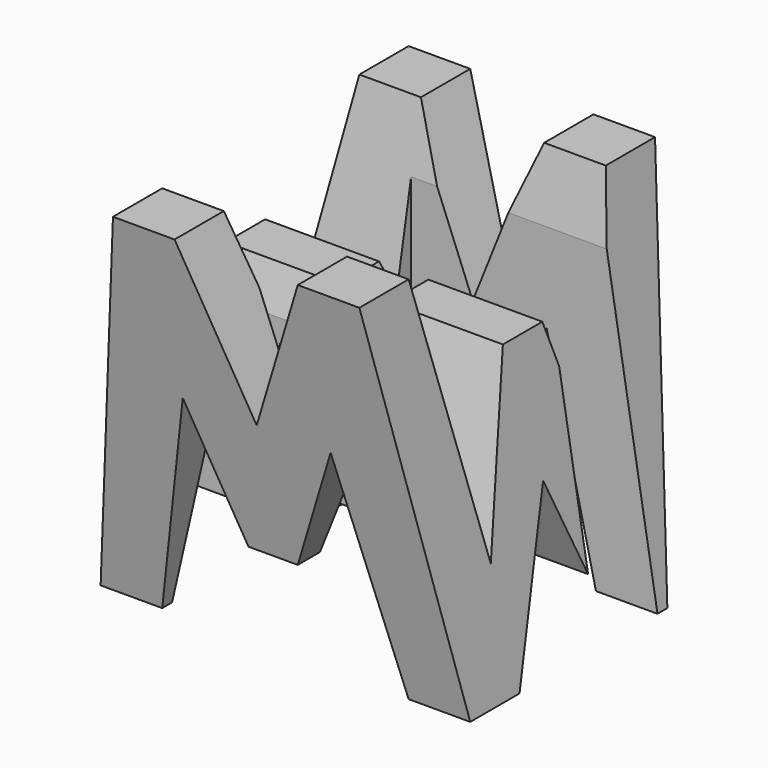
from build123d import *

# Parameters (mm, degrees)
F0_W      = 38.1
F0_H      = 38.1
F1_DEPTH  = 38.1
F6_DEPTH  = 50.8
F8_DEPTH  = 38.1
F9_W      = 25.4
F9_H      = 7.62
F10_DEPTH = 38.1


with BuildPart() as f1:
    # F0 (on Front) → F1 (new body)
    with BuildSketch(Plane.XZ):
        with Locations((19.05, 19.05)):
            Rectangle(F0_W, F0_H)
    extrude(amount=F1_DEPTH)

    # F5 (on offset) → F6 (cut)
    with BuildSketch(Plane.YZ.offset(38.1)):
        Polygon((-11.43, 11.31845), (-6.35, 38.1), (-31.75, 38.1), (-26.67, 11.672141), (-21.59, 28.575), (-16.51, 28.575), align=None)
        Polygon((-31.75, 0), (-38.1, 38.1), (-38.1, 0), align=None)
        Polygon((-25.4, 0), (-12.7, 0), (-19.05, 15.875), align=None)
        Polygon((-6.35, 0), (0, 0), (0, 38.1), align=None)
    extrude(amount=-F6_DEPTH, mode=Mode.SUBTRACT)

    # F7 (on offset) → F8 (cut)
    with BuildSketch(Plane.XZ.offset(38.1)):
        Polygon((0, 38.1), (0, 0), (6.35, 38.1), align=None)
        Polygon((25.4, 38.1), (12.7, 38.1), (19.05, 22.225), align=None)
        Polygon((31.75, 38.1), (38.1, 0), (38.1, 38.1), align=None)
        Polygon((11.43, 22.225), (6.35, 0), (31.75, 0), (26.67, 22.225), (21.59, 9.525), (16.51, 9.525), align=None)
    extrude(amount=-F8_DEPTH, mode=Mode.SUBTRACT)

    # F9 (on offset) → F10 (cut)
    with BuildSketch(Plane.XY.offset(38.1)):
        with Locations((12.7, -26.67)):
            Rectangle(F9_W, F9_H)
        with Locations((25.4, -11.43)):
            Rectangle(F9_W, F9_H)
    extrude(amount=-F10_DEPTH, mode=Mode.SUBTRACT)


solid = f1.part
